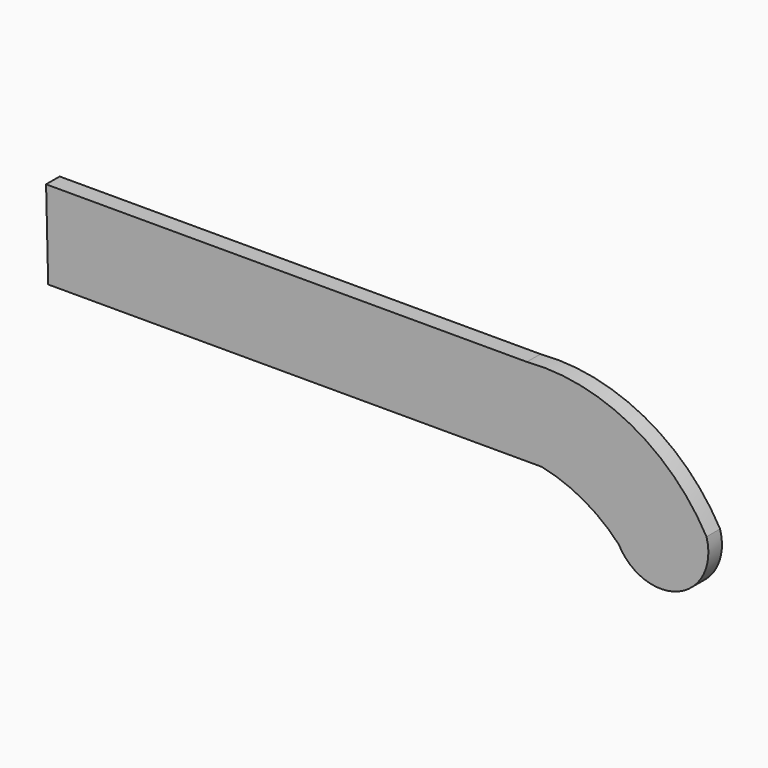
from build123d import *

# Parameters (mm, degrees)
F1_DEPTH = 2.54


with BuildPart() as f1:
    # F0 (on Front) → F1 (new body)
    with BuildSketch(Plane.XZ):
        with BuildLine():
            Line((20.790566, 18.41102), (-51.154129, 18.41102))
            Line((-51.154129, 18.41102), (-50.838508, 5.312736))
            Line((-50.838508, 5.312736), (23.015394, 5.312736))
            ThreePointArc((23.015394, 5.312736), (29.289776, 2.957741), (34.560848, -1.18106))
            ThreePointArc((34.560848, -1.18106), (43.50892, -4.445038), (47.668573, 4.123442))
            ThreePointArc((47.668573, 4.123442), (36.326452, 15.211918), (20.790566, 18.41102))
        make_face()
    extrude(amount=F1_DEPTH)


solid = f1.part
